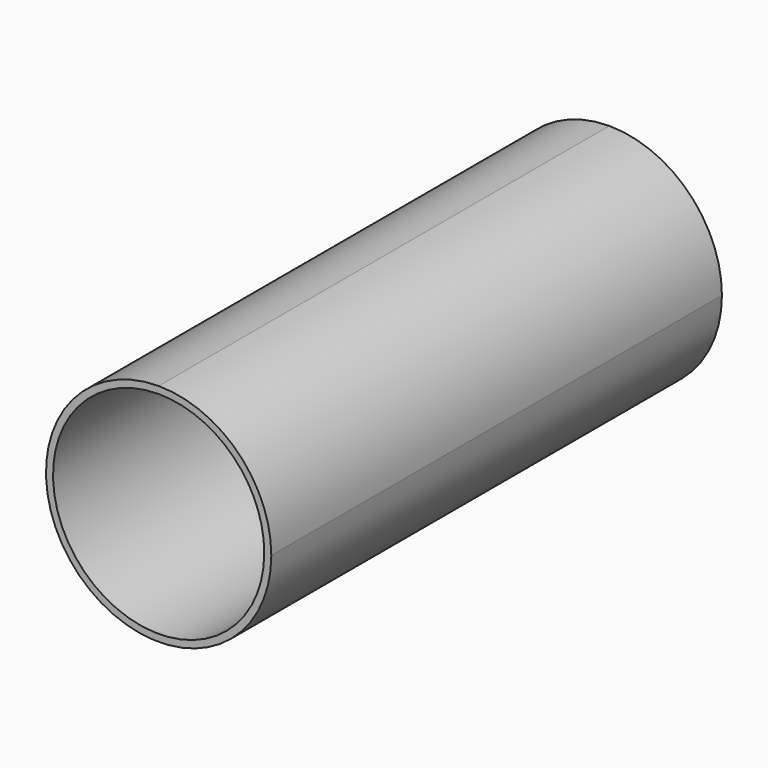
from build123d import *

# Parameters (mm, degrees)
F1_DEPTH = 400


with BuildPart() as f1:
    # F0 (on Front) → F1 (new body)
    with BuildSketch(Plane.XZ):
        with BuildLine():
            ThreePointArc((0, 80), (-56.568542, -56.568542), (80, 0))
            ThreePointArc((80, 0), (56.568542, 56.568542), (0, 80))
        make_face()
        with BuildLine():
            ThreePointArc((75, 0), (-53.033009, -53.033009), (0, 75))
            ThreePointArc((0, 75), (24.670108, 70.826448), (46.594564, 58.770287))
            ThreePointArc((46.594564, 58.770287), (67.526263, 32.637461), (75, 0))
        make_face(mode=Mode.SUBTRACT)
    extrude(amount=F1_DEPTH)


solid = f1.part
